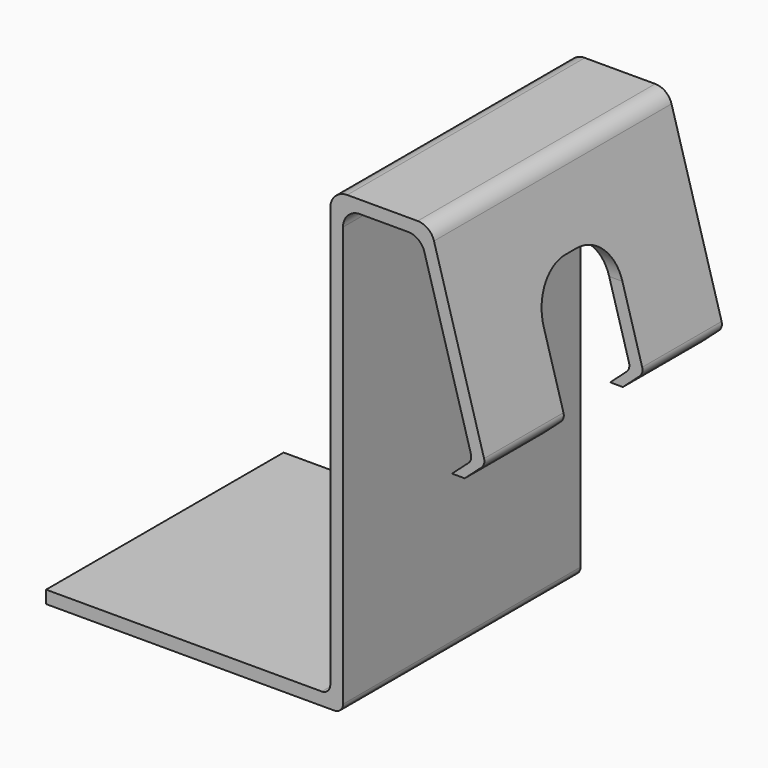
from build123d import *

# Parameters (mm, degrees)
F1_DEPTH      = 1.75
F1_DEPTH_BACK = 1.75
F3_DEPTH      = 25


with BuildPart() as f1:
    # F0 (on Front) → F1 (new body, two sides)
    with BuildSketch(Plane.XZ) as f1_sk:
        with BuildLine():
            Line((0.595, 0.15), (-2.655, 0.15))
            Line((-2.655, 0.15), (-2.655, 0))
            Line((-2.655, 0), (0.745, 0))
            ThreePointArc((0.745, 0), (0.815711, 0.029289), (0.845, 0.1))
            Line((0.845, 0.1), (0.845, 5.05))
            ThreePointArc((0.845, 5.05), (0.903579, 5.191421), (1.045, 5.25))
            Line((1.045, 5.25), (1.612098, 5.25))
            ThreePointArc((1.612098, 5.25), (1.732534, 5.209672), (1.804401, 5.104952))
            Line((1.804401, 5.104952), (2.352996, 3.185167))
            ThreePointArc((2.352996, 3.185167), (2.352908, 3.129908), (2.323486, 3.083132))
            Line((2.323486, 3.083132), (2.129785, 2.91))
            Line((2.129785, 2.91), (2.279785, 2.91))
            Line((2.279785, 2.91), (2.478268, 3.087407))
            ThreePointArc((2.478268, 3.087407), (2.50769, 3.134182), (2.507779, 3.189441))
            Line((2.507779, 3.189441), (1.917541, 5.254952))
            ThreePointArc((1.917541, 5.254952), (1.845674, 5.359672), (1.725239, 5.4))
            Line((1.725239, 5.4), (0.895, 5.4))
            ThreePointArc((0.895, 5.4), (0.753579, 5.341421), (0.695, 5.2))
            Line((0.695, 5.2), (0.695, 2.91))
            Line((0.695, 2.91), (0.695, 0.25))
            ThreePointArc((0.695, 0.25), (0.665711, 0.179289), (0.595, 0.15))
        make_face()
    extrude(amount=F1_DEPTH)
    extrude(f1_sk.sketch, amount=-F1_DEPTH_BACK)

    # F2 (on face) → F3 (cut)
    with BuildSketch(Plane.YZ.offset(0.845)):
        with BuildLine():
            Line((-0.58, 4.004952), (-0.58, 2.610195))
            Line((-0.58, 2.610195), (0.58, 2.610195))
            Line((0.58, 2.610195), (0.58, 4.004952))
            ThreePointArc((0.58, 4.004952), (0.433553, 4.358506), (0.08, 4.504952))
            Line((0.08, 4.504952), (-0.08, 4.504952))
            ThreePointArc((-0.08, 4.504952), (-0.433553, 4.358506), (-0.58, 4.004952))
        make_face()
    extrude(amount=F3_DEPTH, mode=Mode.SUBTRACT)


solid = f1.part
